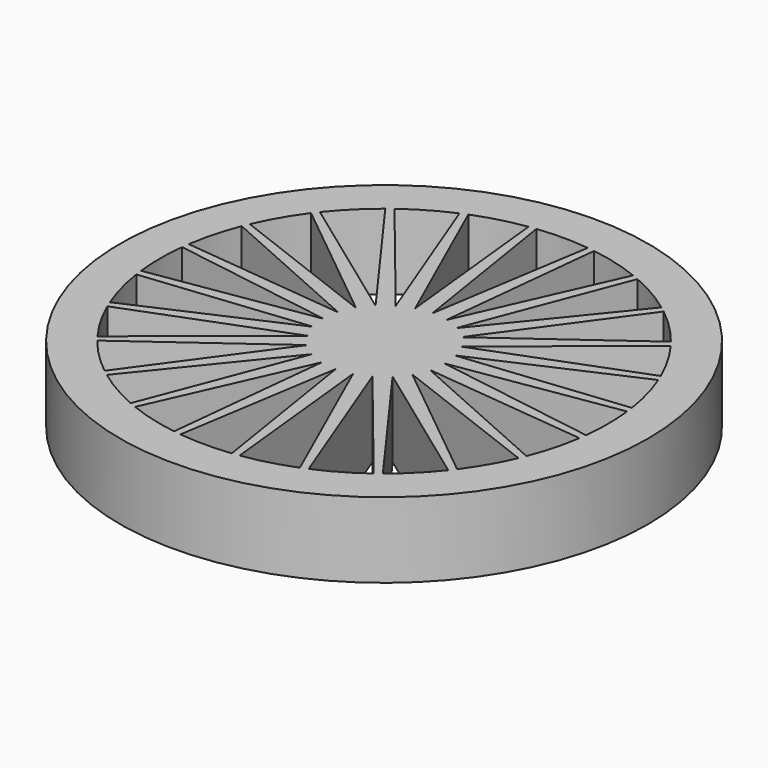
from build123d import *

# Parameters (mm, degrees)
CYLINDER003_R               = 29.7
CYLINDER003_DEPTH           = 10
CYLINDER002_R               = 35
CYLINDER002_DEPTH           = 10
CYLINDER001_W               = 22
CYLINDER001_H               = 10
CYLINDER001_ANGLE           = 18
CYLINDER001_PLACEMENT_ANGLE = -9
ARRAY_COUNT                 = 24
CYLINDER_R                  = 29.7
CYLINDER_DEPTH              = 10


with BuildPart() as obj1:
    # Cylinder003 → Cylinder003 (new body)
    with BuildSketch(Plane.XY):
        Circle(CYLINDER003_R)
    extrude(amount=CYLINDER003_DEPTH)


with BuildPart() as obj2:
    # Cylinder002 → Cylinder002 (new body)
    with BuildSketch(Plane.XY):
        Circle(CYLINDER002_R)
    extrude(amount=CYLINDER002_DEPTH)

    # Cut001: cut obj1
    add(obj1.part, mode=Mode.SUBTRACT)


with BuildPart() as array:
    # Cylinder001 → Cylinder001 (revolve)
    with BuildSketch(Plane.XZ):
        with Locations((11, 5)):
            Rectangle(CYLINDER001_W, CYLINDER001_H)
    revolve(axis=Axis((0, 0, 0), (0, 0, 1)), revolution_arc=CYLINDER001_ANGLE)


with BuildPart() as array_1:
    # Cylinder001 placement: moved
    add(array.part.moved(Location((8, 0, 0))).rotate(Axis((8, 0, 0), (0, 0, 1)), CYLINDER001_PLACEMENT_ANGLE))

    # Array: Array ×24 about axis
    array_axis = Axis((0, 0, 0), (0, 0, 1))


with BuildPart() as array_2:
    add(array_1.part)
    for i in range(1, ARRAY_COUNT):
        add(array_1.part.rotate(array_axis, i * 360 / ARRAY_COUNT))


with BuildPart() as rueda_con_radios:
    # Cylinder → Cylinder (new body)
    with BuildSketch(Plane.XY):
        Circle(CYLINDER_R)
    extrude(amount=CYLINDER_DEPTH)

    # Cut: cut Array
    add(array_2.part, mode=Mode.SUBTRACT)

    # Fusion: union obj2
    add(obj2.part)


solid = rueda_con_radios.part
